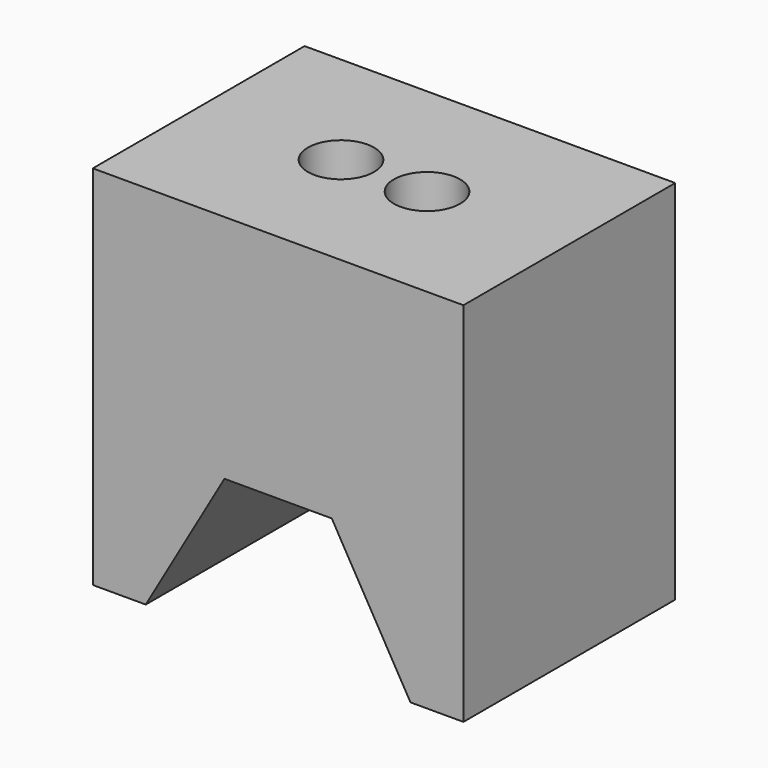
from build123d import *

# Parameters (mm, degrees)
F1_DEPTH = 10
F2_R     = 1.25
F3_DEPTH = 7


with BuildPart() as f1:
    # F0 (on Front) → F1 (new body)
    with BuildSketch(Plane.XZ):
        Polygon((-7, 0), (-5, 0), (-2.02654, 5.150184), (2.02654, 5.150184), (5, 0), (7, 0), (7, 13.856406), (4, 13.856406), (-4, 13.856406), (-7, 13.856406), align=None)
    extrude(amount=F1_DEPTH)

    # F2 (on face) → F3 (cut)
    with BuildSketch(Plane.XY.offset(13.856406)):
        with Locations((1.625, -5)):
            Circle(F2_R)
        with Locations((-1.625, -5)):
            Circle(F2_R)
    extrude(amount=-F3_DEPTH, mode=Mode.SUBTRACT)


solid = f1.part
